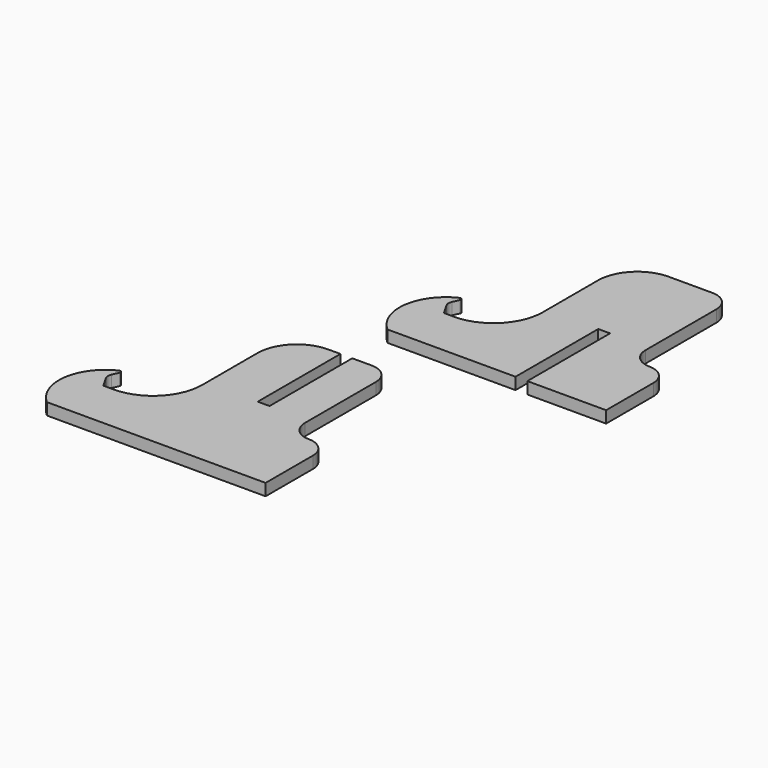
from build123d import *

# Parameters (mm, degrees)
F1_DEPTH = 3


with BuildPart() as f1:
    # F0 (on Top) → F1 (new body)
    with BuildSketch(Plane.XY):
        with BuildLine():
            ThreePointArc((-3.602714, 33.192595), (-7.263879, 24.35376), (-16.102714, 20.692595))
            Line((-16.102714, 20.692595), (-18.69764, 20.692595))
            Line((-18.69764, 20.692595), (-20.346209, 23.548001))
            ThreePointArc((-20.346209, 23.548001), (-20.611964, 24.454349), (-20.432163, 25.381584))
            Line((-20.432163, 25.381584), (-19.668132, 27.0479))
            ThreePointArc((-19.668132, 27.0479), (-19.770924, 27.611684), (-20.335748, 27.708603))
            ThreePointArc((-20.335748, 27.708603), (-26.970856, 18.680172), (-23.027767, 8.192595))
            Line((-23.027767, 8.192595), (9.472233, 8.192595))
            Line((9.472233, 8.192595), (9.472233, 34.442595))
            Line((9.472233, 34.442595), (12.472233, 34.442595))
            Line((12.472233, 34.442595), (12.472233, 8.192595))
            Line((12.472233, 8.192595), (32.472233, 8.192595))
            Line((32.472233, 8.192595), (32.472233, 23.192595))
            ThreePointArc((32.472233, 23.192595), (31.007767, 26.728129), (27.472233, 28.192595))
            ThreePointArc((27.472233, 28.192595), (23.9367, 29.657061), (22.472233, 33.192595))
            Line((22.472233, 33.192595), (22.472233, 55.692595))
            ThreePointArc((22.472233, 55.692595), (21.007767, 59.228129), (17.472233, 60.692595))
            Line((17.472233, 60.692595), (6.397286, 60.692595))
            ThreePointArc((6.397286, 60.692595), (-0.673782, 57.763663), (-3.602714, 50.692595))
            Line((-3.602714, 50.692595), (-3.602714, 33.192595))
        make_face()
        with BuildLine():
            ThreePointArc((-36.818155, -33.340631), (-40.47932, -42.179466), (-49.318155, -45.840631))
            Line((-49.318155, -45.840631), (-51.913081, -45.840631))
            Line((-51.913081, -45.840631), (-53.561651, -42.985225))
            ThreePointArc((-53.561651, -42.985225), (-53.827406, -42.078877), (-53.647604, -41.151643))
            Line((-53.647604, -41.151643), (-52.883573, -39.485326))
            ThreePointArc((-52.883573, -39.485326), (-52.986366, -38.921542), (-53.551189, -38.824623))
            ThreePointArc((-53.551189, -38.824623), (-60.186298, -47.853054), (-56.243208, -58.340631))
            Line((-56.243208, -58.340631), (-23.743208, -58.340631))
            Line((-23.743208, -58.340631), (-20.743208, -58.340631))
            Line((-20.743208, -58.340631), (-0.743208, -58.340631))
            Line((-0.743208, -58.340631), (-0.743208, -43.340631))
            ThreePointArc((-0.743208, -43.340631), (-2.207674, -39.805097), (-5.743208, -38.340631))
            ThreePointArc((-5.743208, -38.340631), (-9.278742, -36.876165), (-10.743208, -33.340631))
            Line((-10.743208, -33.340631), (-10.743208, -10.840631))
            ThreePointArc((-10.743208, -10.840631), (-12.207674, -7.305097), (-15.743208, -5.840631))
            Line((-15.743208, -5.840631), (-20.743208, -5.840631))
            Line((-20.743208, -5.840631), (-20.743208, -32.090631))
            Line((-20.743208, -32.090631), (-23.743208, -32.090631))
            Line((-23.743208, -32.090631), (-23.743208, -5.840631))
            Line((-23.743208, -5.840631), (-26.818155, -5.840631))
            ThreePointArc((-26.818155, -5.840631), (-33.889223, -8.769563), (-36.818155, -15.840631))
            Line((-36.818155, -15.840631), (-36.818155, -33.340631))
        make_face()
    extrude(amount=F1_DEPTH)


solid = f1.part
